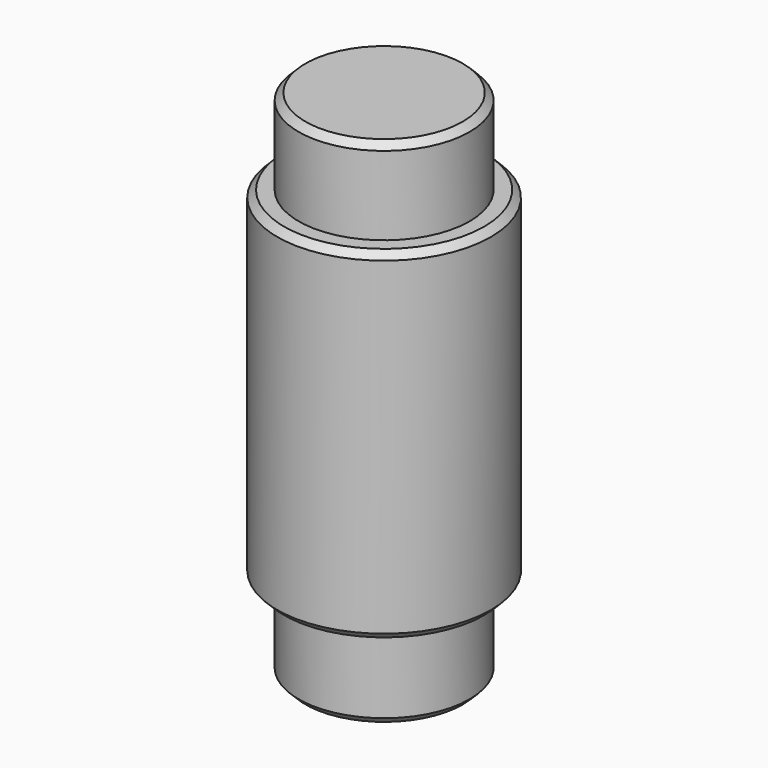
from build123d import *

# Parameters (mm, degrees)
F0_R     = 3.96875
F1_DEPTH = 6.35
F2_R     = 3.175
F3_DEPTH = 3.175
F4_DEPTH = 6.35
F5_R     = 3.175
F6_DEPTH = 3.175
F7_SIZE  = 0.254


with BuildPart() as f1:
    # F0 (on Top) → F1 (new body)
    with BuildSketch(Plane.XY):
        Circle(F0_R)
    extrude(amount=F1_DEPTH)

    # F2 (on face) → F3 (join)
    with BuildSketch(Plane.XY.offset(6.35)):
        Circle(F2_R)
    extrude(amount=F3_DEPTH)

    # F4 (add): a face of the model
    f4_faces = [f1.faces().sort_by_distance(p)[0] for p in [
        (0, 0, 0),
    ]]
    extrude(f4_faces, amount=F4_DEPTH)

    # F5 (on face) → F6 (join)
    with BuildSketch(Plane(origin=(0, 0, -6.35), x_dir=(1, 0, 0), z_dir=(0, 0, -1))):
        Circle(F5_R)
    extrude(amount=F6_DEPTH)

    # F7
    f7_edges = [f1.edges().sort_by_distance(p)[0] for p in [
        (-3.175, 0, 9.525),
        (-3.96875, 0, 6.35),
        (-3.96875, 0, -6.35),
        (-3.175, 0, -9.525),
    ]]
    chamfer(f7_edges, length=F7_SIZE)


solid = f1.part
